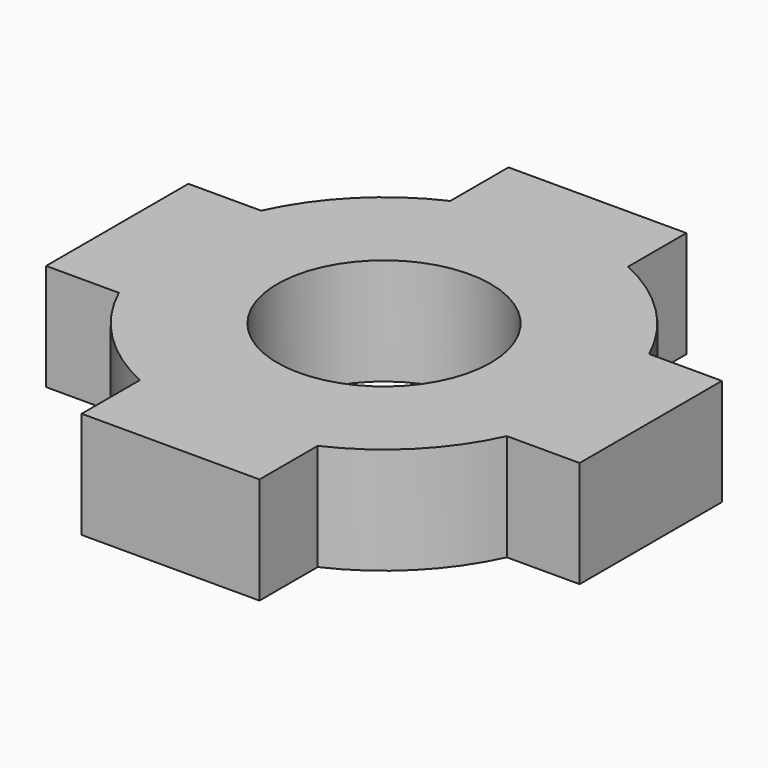
from build123d import *

# Parameters (mm, degrees)
F0_W     = 5
F0_H     = 5
F1_DEPTH = 3
F2_R     = 3
F3_DEPTH = 25


with BuildPart() as f1:
    # F0 (on Top) → F1 (new body)
    with BuildSketch(Plane.XY):
        with BuildLine():
            Line((2.5, 2.5), (5.4543560573, 2.5))
            ThreePointArc((5.4543560573, 2.5), (4.2426406871, 4.2426406871), (2.5, 5.4543560573))
            Line((2.5, 5.4543560573), (2.5, 2.5))
        make_face()
        with BuildLine():
            Line((2.5, -7.5), (2.5, -5.4543560573))
            ThreePointArc((2.5, -5.4543560573), (0, -6), (-2.5, -5.4543560573))
            Line((-2.5, -5.4543560573), (-2.5, -7.5))
            Line((-2.5, -7.5), (2.5, -7.5))
        make_face()
        with BuildLine():
            ThreePointArc((-5.4543560573, -2.5), (-4.2426406871, -4.2426406871), (-2.5, -5.4543560573))
            Line((-2.5, -5.4543560573), (-2.5, -2.5))
            Line((-2.5, -2.5), (-5.4543560573, -2.5))
        make_face()
        with BuildLine():
            ThreePointArc((-5.4543560573, -2.5), (-6, 0), (-5.4543560573, 2.5))
            Line((-5.4543560573, 2.5), (-7.5, 2.5))
            Line((-7.5, 2.5), (-7.5, -2.5))
            Line((-7.5, -2.5), (-5.4543560573, -2.5))
        make_face()
        with BuildLine():
            ThreePointArc((2.5, -5.4543560573), (4.2426406871, -4.2426406871), (5.4543560573, -2.5))
            Line((5.4543560573, -2.5), (2.5, -2.5))
            Line((2.5, -2.5), (2.5, -5.4543560573))
        make_face()
        with BuildLine():
            Line((-2.5, 2.5), (-2.5, 5.4543560573))
            ThreePointArc((-2.5, 5.4543560573), (-4.2426406871, 4.2426406871), (-5.4543560573, 2.5))
            Line((-5.4543560573, 2.5), (-2.5, 2.5))
        make_face()
        with BuildLine():
            ThreePointArc((5.4543560573, -2.5), (5.8620020617, -1.2794263668), (6, 0))
            ThreePointArc((6, 0), (5.8620020617, 1.2794263668), (5.4543560573, 2.5))
            Line((5.4543560573, 2.5), (2.5, 2.5))
            Line((2.5, 2.5), (2.5, -2.5))
            Line((2.5, -2.5), (5.4543560573, -2.5))
        make_face()
        Rectangle(F0_W, F0_H)
        with BuildLine():
            Line((-2.5, -2.5), (-2.5, 2.5))
            Line((-2.5, 2.5), (-5.4543560573, 2.5))
            ThreePointArc((-5.4543560573, 2.5), (-6, 0), (-5.4543560573, -2.5))
            Line((-5.4543560573, -2.5), (-2.5, -2.5))
        make_face()
        with BuildLine():
            Line((2.5, 2.5), (2.5, 5.4543560573))
            ThreePointArc((2.5, 5.4543560573), (0, 6), (-2.5, 5.4543560573))
            Line((-2.5, 5.4543560573), (-2.5, 2.5))
            Line((-2.5, 2.5), (2.5, 2.5))
        make_face()
        with BuildLine():
            ThreePointArc((-2.5, 5.4543560573), (0, 6), (2.5, 5.4543560573))
            Line((2.5, 5.4543560573), (2.5, 7.5))
            Line((2.5, 7.5), (-2.5, 7.5))
            Line((-2.5, 7.5), (-2.5, 5.4543560573))
        make_face()
        with BuildLine():
            ThreePointArc((5.4543560573, 2.5), (5.8620020617, 1.2794263668), (6, 0))
            ThreePointArc((6, 0), (5.8620020617, -1.2794263668), (5.4543560573, -2.5))
            Line((5.4543560573, -2.5), (7.5, -2.5))
            Line((7.5, -2.5), (7.5, 2.5))
            Line((7.5, 2.5), (5.4543560573, 2.5))
        make_face()
        with BuildLine():
            ThreePointArc((-2.5, -5.4543560573), (0, -6), (2.5, -5.4543560573))
            Line((2.5, -5.4543560573), (2.5, -2.5))
            Line((2.5, -2.5), (-2.5, -2.5))
            Line((-2.5, -2.5), (-2.5, -5.4543560573))
        make_face()
    extrude(amount=F1_DEPTH)

    # F2 (on face) → F3 (cut)
    with BuildSketch(Plane.XY.offset(3)):
        Circle(F2_R)
    extrude(amount=-F3_DEPTH, mode=Mode.SUBTRACT)


solid = f1.part
